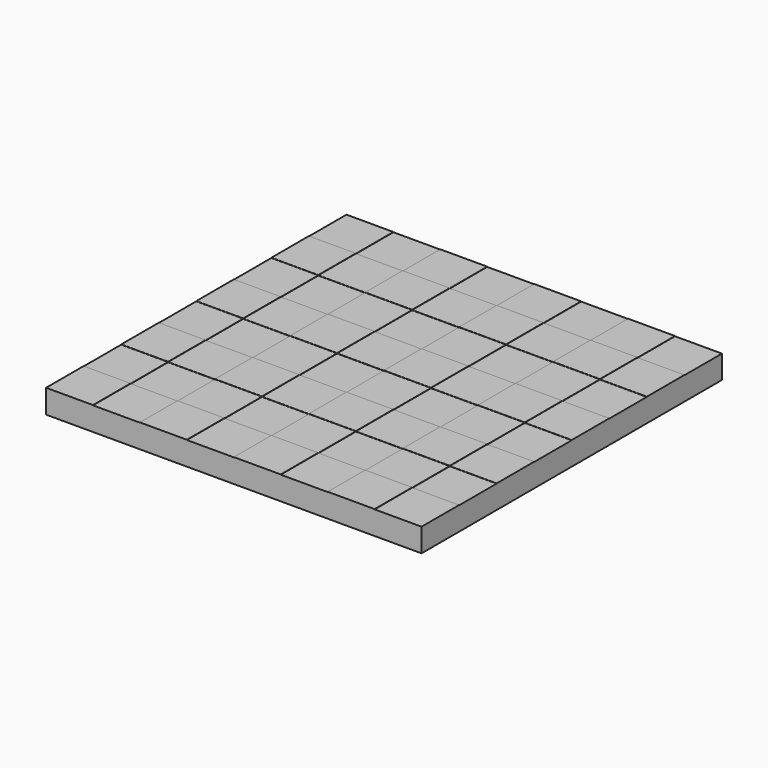
from build123d import *

# Parameters (mm, degrees)
F0_W          = 406.4
F0_H          = 406.4
F1_DEPTH      = 25.4
F2_W          = 50.8
F2_H          = 50.8
F3_DEPTH      = 0.254
F3_DEPTH_BACK = 25.4
F4_W          = 50.8
F4_H          = 50.8
F5_DEPTH      = 0.254


with BuildPart() as f1:
    # F0 (on Top) → F1 (new body)
    with BuildSketch(Plane.XY):
        with Locations((79.0308928013, 107.3409973125)):
            Rectangle(F0_W, F0_H)
    extrude(amount=F1_DEPTH)

    # F2 (on face) → F3 (join, two sides)
    with BuildSketch(Plane.XY.offset(25.4)) as f3_sk:
        with Locations((-98.7691071987, -70.4590026875)):
            Rectangle(F2_W, F2_H)
        with Locations((-98.7691071987, 31.1409973125)):
            Rectangle(F2_W, F2_H)
        with Locations((-98.7691071987, 132.7409973125)):
            Rectangle(F2_W, F2_H)
        with Locations((-98.7691071987, 234.3409973125)):
            Rectangle(F2_W, F2_H)
        with Locations((2.8308928013, -70.4590026875)):
            Rectangle(F2_W, F2_H)
        with Locations((2.8308928013, 31.1409973125)):
            Rectangle(F2_W, F2_H)
        with Locations((2.8308928013, 132.7409973125)):
            Rectangle(F2_W, F2_H)
        with Locations((2.8308928013, 234.3409973125)):
            Rectangle(F2_W, F2_H)
        with Locations((104.4308928013, -70.4590026875)):
            Rectangle(F2_W, F2_H)
        with Locations((104.4308928013, 31.1409973125)):
            Rectangle(F2_W, F2_H)
        with Locations((104.4308928013, 132.7409973125)):
            Rectangle(F2_W, F2_H)
        with Locations((104.4308928013, 234.3409973125)):
            Rectangle(F2_W, F2_H)
        with Locations((206.0308928013, -70.4590026875)):
            Rectangle(F2_W, F2_H)
        with Locations((206.0308928013, 31.1409973125)):
            Rectangle(F2_W, F2_H)
        with Locations((206.0308928013, 132.7409973125)):
            Rectangle(F2_W, F2_H)
        with Locations((206.0308928013, 234.3409973125)):
            Rectangle(F2_W, F2_H)
    extrude(amount=F3_DEPTH)
    extrude(f3_sk.sketch, amount=-F3_DEPTH_BACK)

    # F4 (on face) → F5 (cut)
    with BuildSketch(Plane.XY.offset(25.4)):
        with Locations((-47.9691071987, -19.6590026875)):
            Rectangle(F4_W, F4_H)
        with Locations((-47.9691071987, 81.9409973125)):
            Rectangle(F4_W, F4_H)
        with Locations((-47.9691071987, 183.5409973125)):
            Rectangle(F4_W, F4_H)
        with Locations((-47.9691071987, 285.1409973125)):
            Rectangle(F4_W, F4_H)
        with Locations((53.6308928013, 285.1409973125)):
            Rectangle(F4_W, F4_H)
        with Locations((53.6308928013, 183.5409973125)):
            Rectangle(F4_W, F4_H)
        with Locations((53.6308928013, 81.9409973125)):
            Rectangle(F4_W, F4_H)
        with Locations((53.6308928013, -19.6590026875)):
            Rectangle(F4_W, F4_H)
        with Locations((155.2308928013, -19.6590026875)):
            Rectangle(F4_W, F4_H)
        with Locations((155.2308928013, 81.9409973125)):
            Rectangle(F4_W, F4_H)
        with Locations((155.2308928013, 183.5409973125)):
            Rectangle(F4_W, F4_H)
        with Locations((155.2308928013, 285.1409973125)):
            Rectangle(F4_W, F4_H)
        with Locations((256.8308928013, 285.1409973125)):
            Rectangle(F4_W, F4_H)
        with Locations((256.8308928013, 183.5409973125)):
            Rectangle(F4_W, F4_H)
        with Locations((256.8308928013, 81.9409973125)):
            Rectangle(F4_W, F4_H)
        with Locations((256.8308928013, -19.6590026875)):
            Rectangle(F4_W, F4_H)
    extrude(amount=-F5_DEPTH, mode=Mode.SUBTRACT)


solid = f1.part
